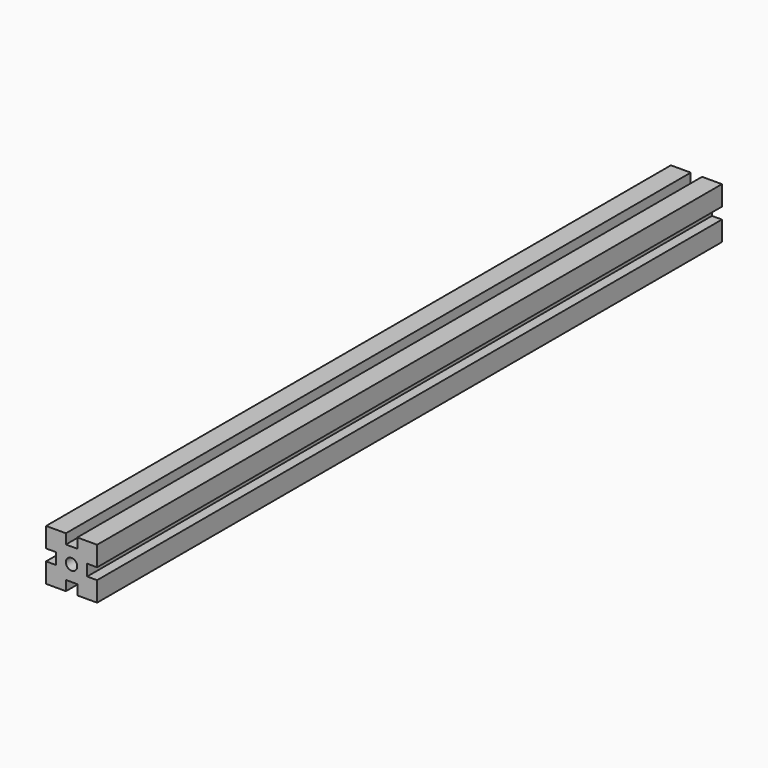
from build123d import *

# Parameters (mm, degrees)
F0_R     = 5
F1_DEPTH = 689


with BuildPart() as f1:
    # F0 (on Front) → F1 (new body)
    with BuildSketch(Plane.XZ):
        Polygon((5, -22.5), (22.5, -22.5), (22.5, -5), (13.75, -5), (13.75, 5), (22.5, 5), (22.5, 22.5), (5, 22.5), (5, 13.75), (-5, 13.75), (-5, 22.5), (-22.5, 22.5), (-22.5, 5), (-13.75, 5), (-13.75, -5), (-22.5, -5), (-22.5, -22.5), (-5, -22.5), (-5, -13.75), (5, -13.75), align=None)
        Circle(F0_R, mode=Mode.SUBTRACT)
    extrude(amount=F1_DEPTH)


solid = f1.part
